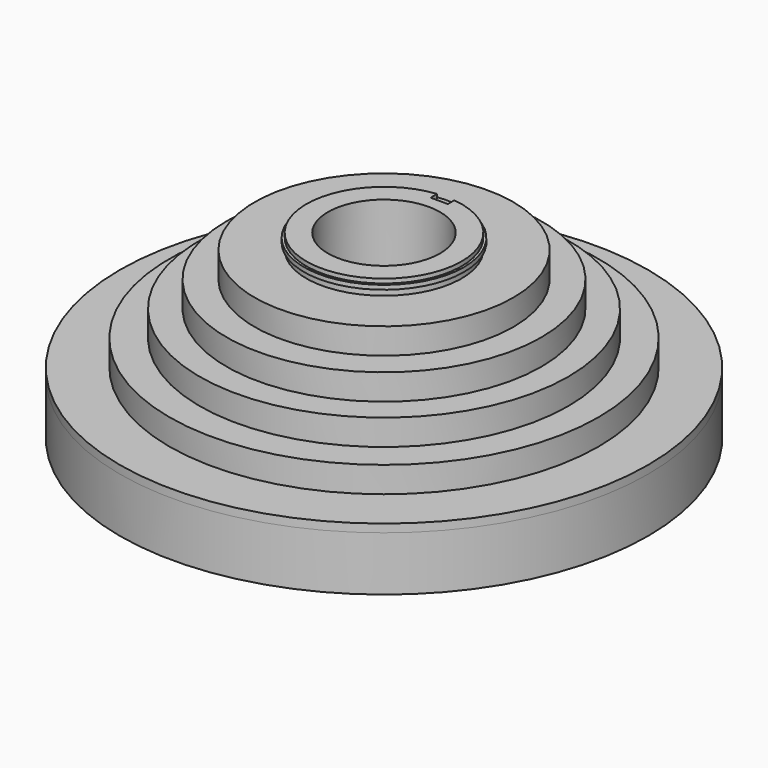
from build123d import *

# Parameters (mm, degrees)
TUBE_R                  = 122.5
TUBE_R_2                = 62.55
TUBE_DEPTH              = 25.23
TUBE001_R               = 62.55
TUBE001_R_2             = 6
TUBE001_DEPTH           = 25.23
TUBE002_R               = 122.5
TUBE002_R_2             = 6
TUBE002_DEPTH           = 3.77
BOX_W                   = 8
BOX_H                   = 8
BOX_DEPTH               = 55
TUBE004_R               = 99.5
TUBE004_R_2             = 36
TUBE004_DEPTH           = 12
TUBE005_R               = 85.5
TUBE005_R_2             = 36
TUBE005_DEPTH           = 12
TUBE006_R               = 73
TUBE006_R_2             = 36
TUBE006_DEPTH           = 12
BOX001_W                = 8
BOX001_H                = 8
BOX001_DEPTH            = 51
CYLINDER_R              = 5.92
CYLINDER_DEPTH          = 34.2
TUBE008_R               = 36
TUBE008_R_2             = 34.9
TUBE008_DEPTH           = 2
TUBE008_PLACEMENT_ANGLE = 3
TUBE003_R               = 36
TUBE003_R_2             = 26
TUBE003_DEPTH           = 55
TUBE009_R               = 60
TUBE009_R_2             = 36
TUBE009_DEPTH           = 12
TUBE010_R               = 37.1
TUBE010_R_2             = 34.9
TUBE010_DEPTH           = 2


with BuildPart() as flywheel:
    # Tube → Tube (new body)
    with BuildSketch(Plane.XY):
        Circle(TUBE_R)
        Circle(TUBE_R_2, mode=Mode.SUBTRACT)
    extrude(amount=TUBE_DEPTH)


with BuildPart() as disk:
    # Tube001 → Tube001 (new body)
    with BuildSketch(Plane.XY):
        Circle(TUBE001_R)
        Circle(TUBE001_R_2, mode=Mode.SUBTRACT)
    extrude(amount=TUBE001_DEPTH)


with BuildPart() as hub:
    # Tube002 → Tube002 (new body)
    with BuildSketch(Plane.XY.offset(25.23)):
        Circle(TUBE002_R)
        Circle(TUBE002_R_2, mode=Mode.SUBTRACT)
    extrude(amount=TUBE002_DEPTH)


with BuildPart() as obj1:
    # Box → Box (new body)
    with BuildSketch(Plane(origin=(-4, 32, 29), x_dir=(1, 0, 0), z_dir=(0, 0, 1))):
        with Locations((4, 4)):
            Rectangle(BOX_W, BOX_H)
    extrude(amount=BOX_DEPTH)


with BuildPart() as w1_keyed:
    # Tube004 → Tube004 (new body)
    with BuildSketch(Plane.XY.offset(29)):
        Circle(TUBE004_R)
        Circle(TUBE004_R_2, mode=Mode.SUBTRACT)
    extrude(amount=TUBE004_DEPTH)

    # Cut001: cut obj1
    add(obj1.part, mode=Mode.SUBTRACT)


with BuildPart() as w2_keyed:
    # Tube005 → Tube005 (new body)
    with BuildSketch(Plane.XY.offset(41)):
        Circle(TUBE005_R)
        Circle(TUBE005_R_2, mode=Mode.SUBTRACT)
    extrude(amount=TUBE005_DEPTH)

    # Cut002: cut obj1
    add(obj1.part, mode=Mode.SUBTRACT)


with BuildPart() as w3_keyed:
    # Tube006 → Tube006 (new body)
    with BuildSketch(Plane.XY.offset(53)):
        Circle(TUBE006_R)
        Circle(TUBE006_R_2, mode=Mode.SUBTRACT)
    extrude(amount=TUBE006_DEPTH)

    # Cut003: cut obj1
    add(obj1.part, mode=Mode.SUBTRACT)


with BuildPart() as key:
    # Box001 → Box001 (new body)
    with BuildSketch(Plane(origin=(-4, 32, 29), x_dir=(1, 0, 0), z_dir=(0, 0, 1))):
        with Locations((4, 4)):
            Rectangle(BOX001_W, BOX001_H)
    extrude(amount=BOX001_DEPTH)


with BuildPart() as threadedshaft:
    # Cylinder → Cylinder (new body)
    with BuildSketch(Plane.XY):
        Circle(CYLINDER_R)
    extrude(amount=CYLINDER_DEPTH)


with BuildPart() as circlip_grove:
    # Tube008 → Tube008 (new body)
    with BuildSketch(Plane.XY):
        Circle(TUBE008_R)
        Circle(TUBE008_R_2, mode=Mode.SUBTRACT)
    extrude(amount=TUBE008_DEPTH)


with BuildPart() as circlip_grove_1:
    # Tube008 placement: moved
    add(circlip_grove.part.moved(Location((0, 0, 80))).rotate(Axis((0, 0, 80), (0, 0, -1)), TUBE008_PLACEMENT_ANGLE))


with BuildPart() as grove_and_key:
    # Body base: copy of obj1
    add(obj1.part)

    # Fusion: union circlip_grove
    add(circlip_grove_1.part)


with BuildPart() as obj2:
    # Tube003 → Tube003 (new body)
    with BuildSketch(Plane.XY.offset(29)):
        Circle(TUBE003_R)
        Circle(TUBE003_R_2, mode=Mode.SUBTRACT)
    extrude(amount=TUBE003_DEPTH)

    # Cut: cut grove_and_key
    add(grove_and_key.part, mode=Mode.SUBTRACT)


with BuildPart() as w4_keyed:
    # Tube009 → Tube009 (new body)
    with BuildSketch(Plane.XY.offset(65)):
        Circle(TUBE009_R)
        Circle(TUBE009_R_2, mode=Mode.SUBTRACT)
    extrude(amount=TUBE009_DEPTH)

    # Cut004: cut obj1
    add(obj1.part, mode=Mode.SUBTRACT)


with BuildPart() as circlip:
    # Tube010 → Tube010 (new body)
    with BuildSketch(Plane.XY.offset(80)):
        Circle(TUBE010_R)
        Circle(TUBE010_R_2, mode=Mode.SUBTRACT)
    extrude(amount=TUBE010_DEPTH)


solid = Compound([flywheel.part, disk.part, hub.part, w1_keyed.part, w2_keyed.part, w3_keyed.part, key.part, threadedshaft.part, obj2.part, w4_keyed.part, circlip.part])
